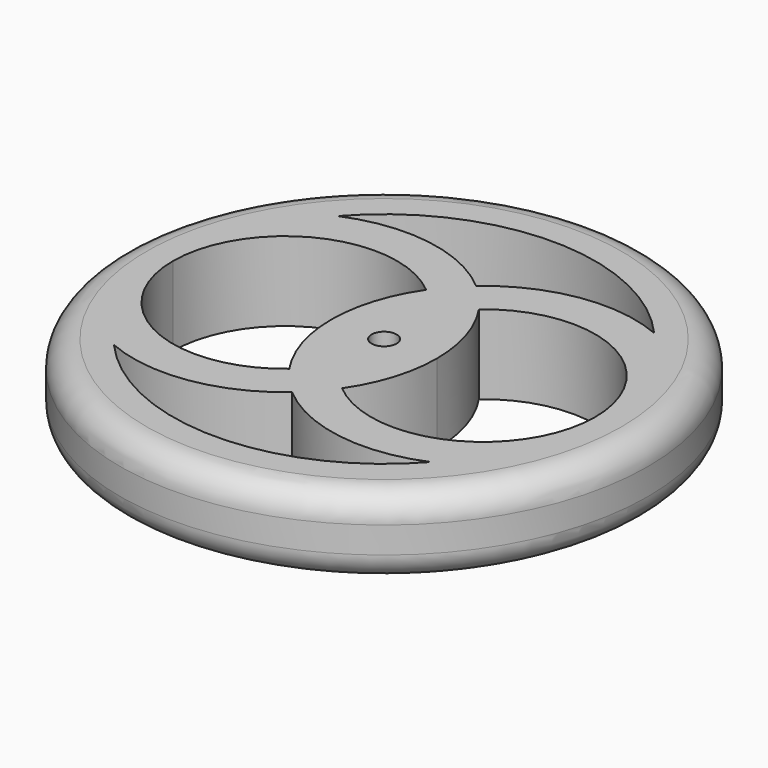
from build123d import *

# Parameters (mm, degrees)
F0_R     = 63.5
F0_R_2   = 3
F1_DEPTH = 19.05
F2_R     = 6.35


with BuildPart() as f1:
    # F0 (on Top) → F1 (new body)
    with BuildSketch(Plane.XY):
        Circle(F0_R)
        with BuildLine():
            ThreePointArc((38.1, -33.601042), (0, -50.8), (-38.1, -33.601042))
            ThreePointArc((-38.1, -33.601042), (-18.204557, -36.079269), (0, -27.679008))
            ThreePointArc((0, -27.679008), (18.204557, -36.079269), (38.1, -33.601042))
        make_face(mode=Mode.SUBTRACT)
        with BuildLine():
            ThreePointArc((-50.8, 0), (-35.149518, 24.490757), (-6.35, 20.576352))
            ThreePointArc((-6.35, 20.576352), (-11.076402, 10.766949), (-12.7, 0))
            ThreePointArc((-12.7, 0), (-11.076402, -10.766949), (-6.35, -20.576352))
            ThreePointArc((-6.35, -20.576352), (-35.149518, -24.490757), (-50.8, 0))
        make_face(mode=Mode.SUBTRACT)
        Circle(F0_R_2, mode=Mode.SUBTRACT)
        with BuildLine():
            ThreePointArc((6.35, -20.576352), (11.076402, -10.766949), (12.7, 0))
            ThreePointArc((12.7, 0), (11.076402, 10.766949), (6.35, 20.576352))
            ThreePointArc((6.35, 20.576352), (35.149518, 24.490757), (50.8, 0))
            ThreePointArc((50.8, 0), (35.149518, -24.490757), (6.35, -20.576352))
        make_face(mode=Mode.SUBTRACT)
        with BuildLine():
            ThreePointArc((38.1, 33.601042), (18.204557, 36.079269), (0, 27.679008))
            ThreePointArc((0, 27.679008), (-18.204557, 36.079269), (-38.1, 33.601042))
            ThreePointArc((-38.1, 33.601042), (0, 50.8), (38.1, 33.601042))
        make_face(mode=Mode.SUBTRACT)
    extrude(amount=F1_DEPTH)

    # F2
    f2_edges = [f1.edges().sort_by_distance(p)[0] for p in [
        (63.5, 0, 9.525),
        (-63.5, 0, 0),
        (-63.5, 0, 19.05),
    ]]
    fillet(f2_edges, radius=F2_R)


solid = f1.part
